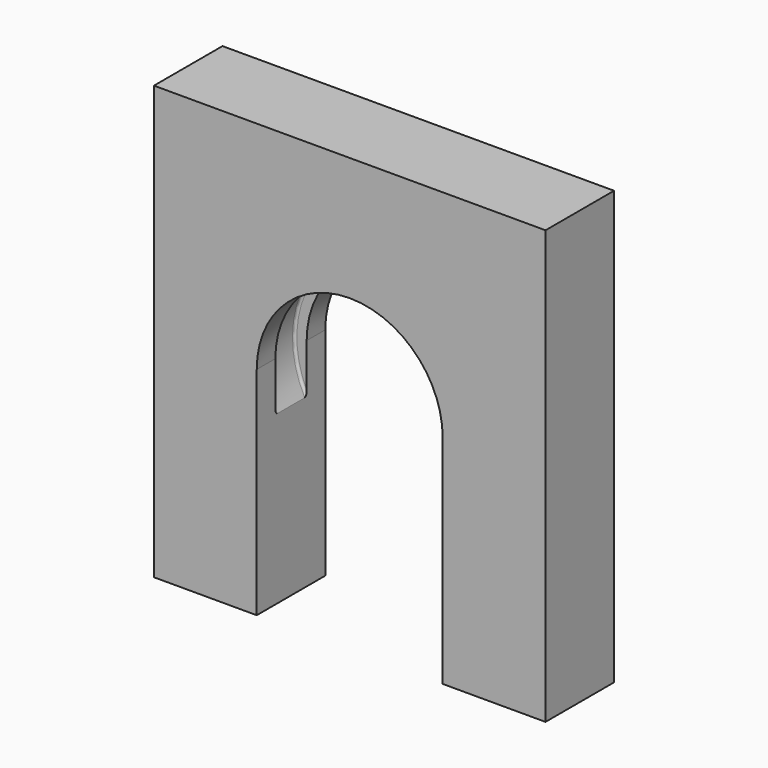
from build123d import *

# Parameters (mm, degrees)
F1_DEPTH = 17.5
F4_R     = 1
F5_R     = 1


with BuildPart() as f1:
    # F0 (on Front) → F1 (new body, symmetric)
    with BuildSketch(Plane.XZ):
        with BuildLine():
            ThreePointArc((-38, 0), (0, 38), (38, 0))
            Line((38, 0), (38, -88.42741))
            Line((38, -88.42741), (80, -88.42741))
            Line((80, -88.42741), (80, 88.42741))
            Line((80, 88.42741), (-80, 88.42741))
            Line((-80, 88.42741), (-80, -88.42741))
            Line((-80, -88.42741), (-38, -88.42741))
            Line((-38, -88.42741), (-38, 0))
        make_face()
    extrude(amount=F1_DEPTH, both=True)

    # F2 (on Right) → F3 (revolve, cut)
    with BuildSketch(Plane.YZ):
        Polygon((-8, 43), (-8, 32.880556), (8, 32.880556), (8, 43), (0, 43), align=None)
    revolve(axis=Axis((0, 0, 0), (0, -1, 0)), mode=Mode.SUBTRACT)

    # F4
    f4_edges = [f1.edges().sort_by_distance(p)[0] for p in [
        (0, 8, 43),
    ]]
    fillet(f4_edges, radius=F4_R)

    # F5
    f5_edges = [f1.edges().sort_by_distance(p)[0] for p in [
        (0, -8, 43),
    ]]
    fillet(f5_edges, radius=F5_R)


solid = f1.part
